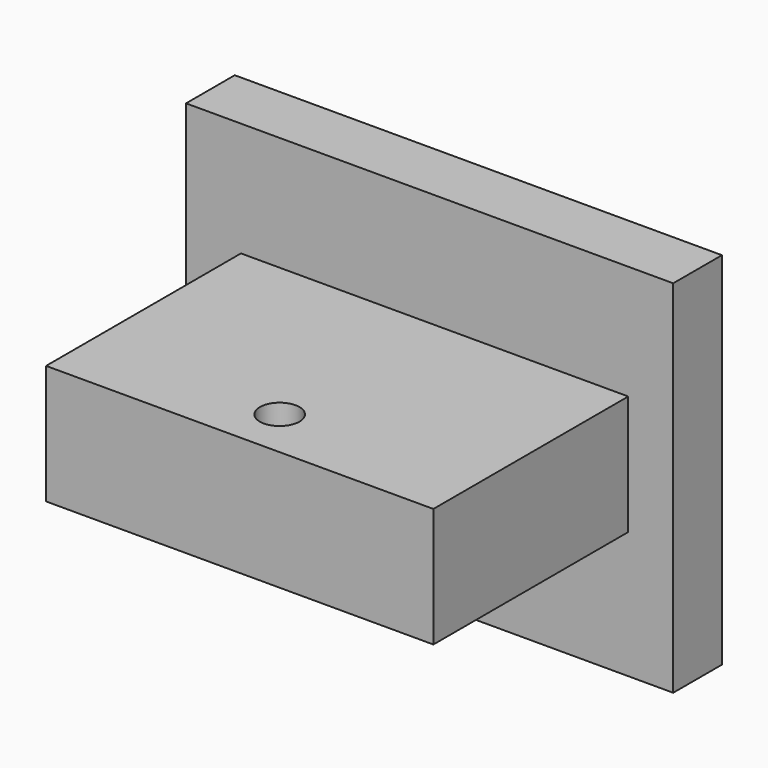
from build123d import *

# Parameters (mm, degrees)
F0_W     = 40.386
F0_H     = 12.446
F1_DEPTH = 31.75
F0_W_2   = 50.8
F0_H_2   = 37.592
F2_DEPTH = 6.35
F3_R     = 2.06375
F4_DEPTH = 62.67391


with BuildPart() as f1:
    # F0 (on Front) → F1 (new body)
    with BuildSketch(Plane.XZ):
        with Locations((-43.728333, 25.020055)):
            Rectangle(F0_W, F0_H)
    extrude(amount=F1_DEPTH)

    # F0 (on Front) → F2 (join)
    with BuildSketch(Plane.XZ):
        with Locations((-44.247495, 24.36066)):
            Rectangle(F0_W_2, F0_H_2)
        with Locations((-43.728333, 25.020055)):
            Rectangle(F0_W, F0_H, mode=Mode.SUBTRACT)
    extrude(amount=F2_DEPTH)

    # F3 (on face) → F4 (cut)
    with BuildSketch(Plane(origin=(0, 0, 18.797055), x_dir=(1, 0, 0), z_dir=(0, 0, -1))):
        with Locations((-43.728333, 26.543)):
            Circle(F3_R)
    extrude(amount=-F4_DEPTH, mode=Mode.SUBTRACT)


solid = f1.part
